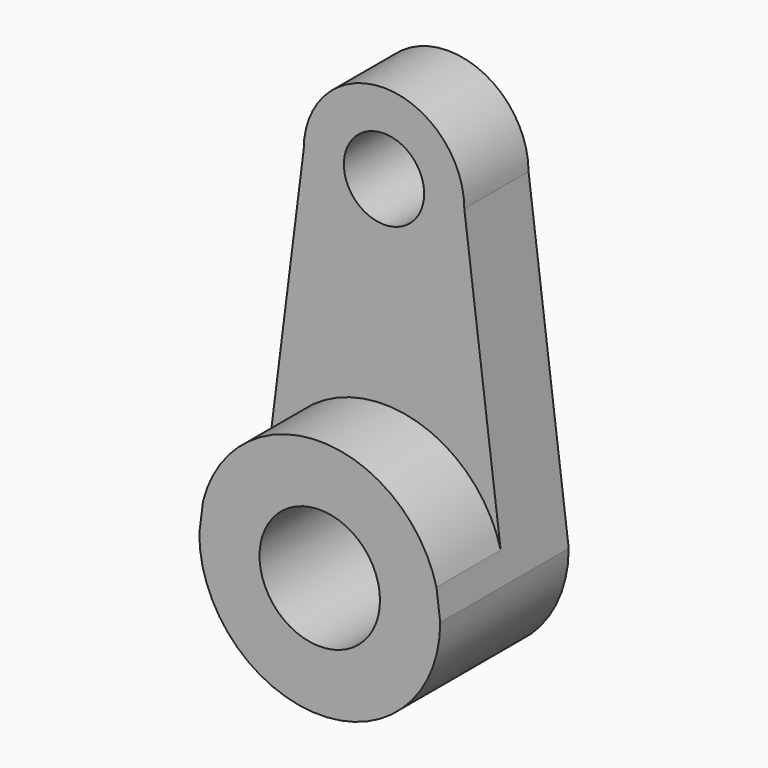
from build123d import *

# Parameters (mm, degrees)
F0_R     = 12.7
F1_DEPTH = 25.4
F0_R_2   = 19.05
F2_DEPTH = 50.8


with BuildPart() as f1:
    # F0 (on Front) → F1 (new body)
    with BuildSketch(Plane.XZ):
        with BuildLine():
            ThreePointArc((-25.4, 0), (0, -25.4), (25.4, 0))
            ThreePointArc((25.4, 0), (0, 25.4), (-25.4, 0))
        make_face()
        Circle(F0_R, mode=Mode.SUBTRACT)
        with BuildLine():
            Line((36.909375, -91.3528319874), (25.4, 0))
            ThreePointArc((25.4, 0), (0, -25.4), (-25.4, 0))
            Line((-25.4, 0), (-36.909375, -91.3528319874))
            ThreePointArc((-36.909375, -91.3528319874), (0, -62.7031249516), (36.909375, -91.3528319874))
        make_face()
    extrude(amount=F1_DEPTH)

    # F0 (on Front) → F2 (join)
    with BuildSketch(Plane.XZ):
        with BuildLine():
            Line((38.1, -100.8031249516), (36.909375, -91.3528319874))
            ThreePointArc((36.909375, -91.3528319874), (0, -62.7031249516), (-36.909375, -91.3528319874))
            Line((-36.909375, -91.3528319874), (-38.1, -100.8031249516))
            ThreePointArc((-38.1, -100.8031249516), (0, -138.9031249516), (38.1, -100.8031249516))
        make_face()
        with Locations((0, -100.8031249516)):
            Circle(F0_R_2, mode=Mode.SUBTRACT)
    extrude(amount=F2_DEPTH)


solid = f1.part
